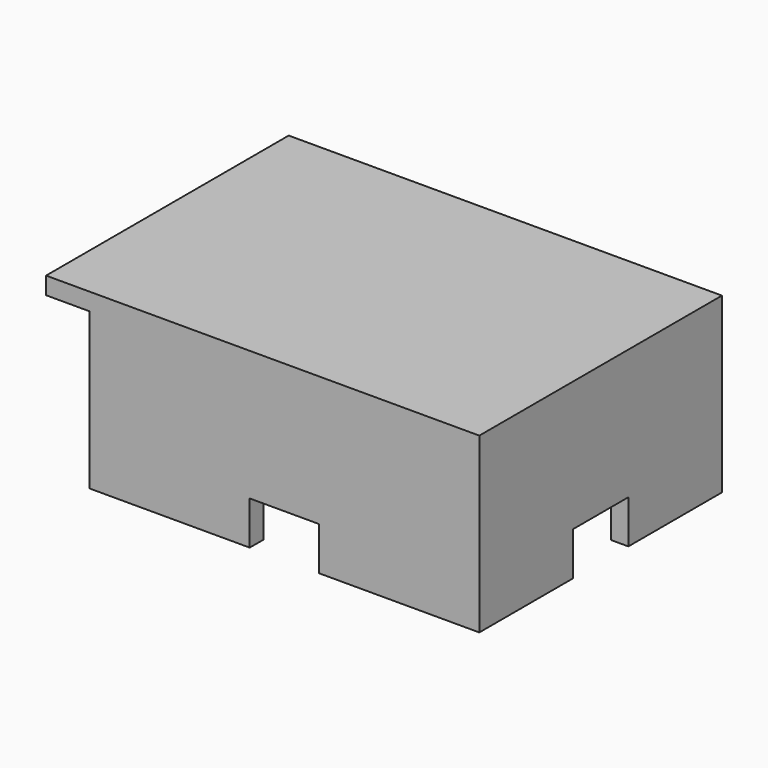
from build123d import *

# Parameters (mm, degrees)
BOX006_W     = 2
BOX006_H     = 8
BOX006_DEPTH = 5
BOX005_W     = 2
BOX005_H     = 8
BOX005_DEPTH = 5
BOX004_W     = 8
BOX004_H     = 2
BOX004_DEPTH = 5
BOX003_W     = 8
BOX003_H     = 2
BOX003_DEPTH = 5
BOX002_W     = 41
BOX002_H     = 31
BOX002_DEPTH = 18
BOX001_W     = 5
BOX001_H     = 35
BOX001_DEPTH = 18
BOX_W        = 50
BOX_H        = 35
BOX_DEPTH    = 20


with BuildPart() as cubo006:
    # Box006 → Box006 (new body)
    with BuildSketch(Plane(origin=(48, 13.5, 0), x_dir=(1, 0, 0), z_dir=(0, 0, 1))):
        with Locations((1, 4)):
            Rectangle(BOX006_W, BOX006_H)
    extrude(amount=BOX006_DEPTH)


with BuildPart() as cubo005:
    # Box005 → Box005 (new body)
    with BuildSketch(Plane(origin=(5, 13.5, 0), x_dir=(1, 0, 0), z_dir=(0, 0, 1))):
        with Locations((1, 4)):
            Rectangle(BOX005_W, BOX005_H)
    extrude(amount=BOX005_DEPTH)


with BuildPart() as cubo004:
    # Box004 → Box004 (new body)
    with BuildSketch(Plane(origin=(23.5, 33, 0), x_dir=(1, 0, 0), z_dir=(0, 0, 1))):
        with Locations((4, 1)):
            Rectangle(BOX004_W, BOX004_H)
    extrude(amount=BOX004_DEPTH)


with BuildPart() as cubo003:
    # Box003 → Box003 (new body)
    with BuildSketch(Plane(origin=(23.5, 0, 0), x_dir=(1, 0, 0), z_dir=(0, 0, 1))):
        with Locations((4, 1)):
            Rectangle(BOX003_W, BOX003_H)
    extrude(amount=BOX003_DEPTH)


with BuildPart() as cubo002:
    # Box002 → Box002 (new body)
    with BuildSketch(Plane(origin=(7, 2, 0), x_dir=(1, 0, 0), z_dir=(0, 0, 1))):
        with Locations((20.5, 15.5)):
            Rectangle(BOX002_W, BOX002_H)
    extrude(amount=BOX002_DEPTH)


with BuildPart() as cubo001:
    # Box001 → Box001 (new body)
    with BuildSketch(Plane.XY):
        with Locations((2.5, 17.5)):
            Rectangle(BOX001_W, BOX001_H)
    extrude(amount=BOX001_DEPTH)


with BuildPart() as cut005:
    # Box → Box (new body)
    with BuildSketch(Plane.XY):
        with Locations((25, 17.5)):
            Rectangle(BOX_W, BOX_H)
    extrude(amount=BOX_DEPTH)

    # Cut: cut Cubo001
    add(cubo001.part, mode=Mode.SUBTRACT)

    # Cut001: cut Cubo002
    add(cubo002.part, mode=Mode.SUBTRACT)

    # Cut002: cut Cubo003
    add(cubo003.part, mode=Mode.SUBTRACT)

    # Cut003: cut Cubo004
    add(cubo004.part, mode=Mode.SUBTRACT)

    # Cut004: cut Cubo005
    add(cubo005.part, mode=Mode.SUBTRACT)

    # Cut005: cut Cubo006
    add(cubo006.part, mode=Mode.SUBTRACT)


solid = cut005.part
